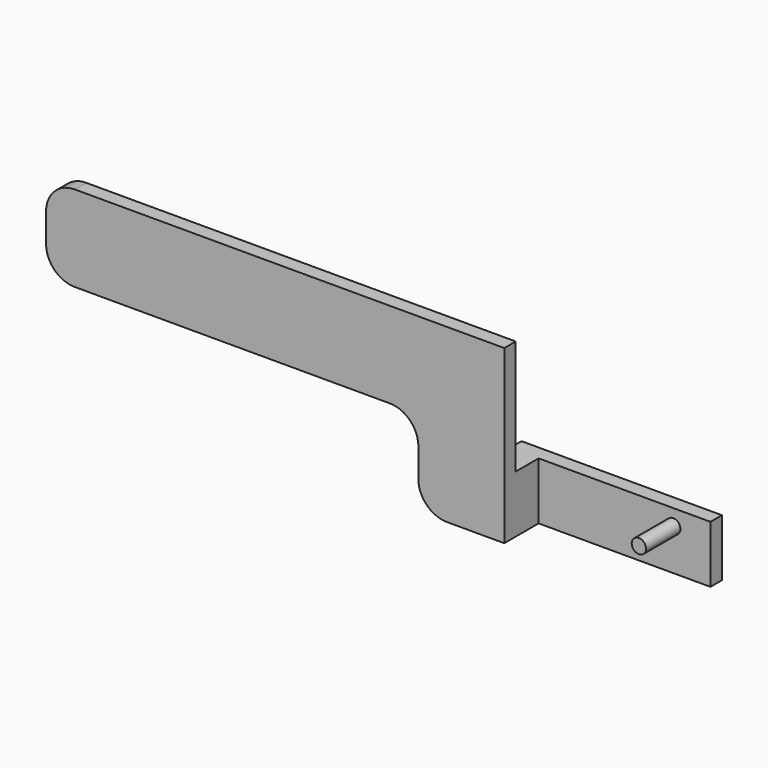
from build123d import *

# Parameters (mm, degrees)
F0_W     = 800
F0_H     = 300
F1_DEPTH = 25
F2_W     = 50
F2_H     = 100
F3_DEPTH = 75
F4_W     = 25
F4_H     = 100
F5_DEPTH = 300
F6_R     = 12.5
F7_DEPTH = 75
F8_W     = 650
F8_H     = 150
F9_DEPTH = 25
F10_R    = 50
F11_R    = 50


with BuildPart() as f1:
    # F0 (on Front) → F1 (new body)
    with BuildSketch(Plane.XZ):
        Rectangle(F0_W, F0_H)
    extrude(amount=F1_DEPTH)

    # F2 (on face) → F3 (join)
    with BuildSketch(Plane(origin=(0, 0, 0), x_dir=(-1, 0, 0), z_dir=(0, 1, 0))):
        with Locations((-375, -100)):
            Rectangle(F2_W, F2_H)
    extrude(amount=F3_DEPTH)

    # F4 (on face) → F5 (join)
    with BuildSketch(Plane.YZ.offset(400)):
        with Locations((62.5, -100)):
            Rectangle(F4_W, F4_H)
    extrude(amount=F5_DEPTH)

    # F6 (on face) → F7 (join)
    with BuildSketch(Plane.XZ.offset(-50)):
        with Locations((635, -78)):
            Circle(F6_R)
    extrude(amount=F7_DEPTH)

    # F8 (on face) → F9 (cut)
    with BuildSketch(Plane.XZ.offset(25)):
        with Locations((-75, -75)):
            Rectangle(F8_W, F8_H)
    extrude(amount=-F9_DEPTH, mode=Mode.SUBTRACT)

    # F10
    f10_edges = [f1.edges().sort_by_distance(p)[0] for p in [
        (-400, -12.5, 0),
        (250, -12.5, 0),
        (250, -12.5, -150),
    ]]
    fillet(f10_edges, radius=F10_R)

    # F11
    f11_edges = [f1.edges().sort_by_distance(p)[0] for p in [
        (-400, -12.5, 150),
    ]]
    fillet(f11_edges, radius=F11_R)


solid = f1.part
